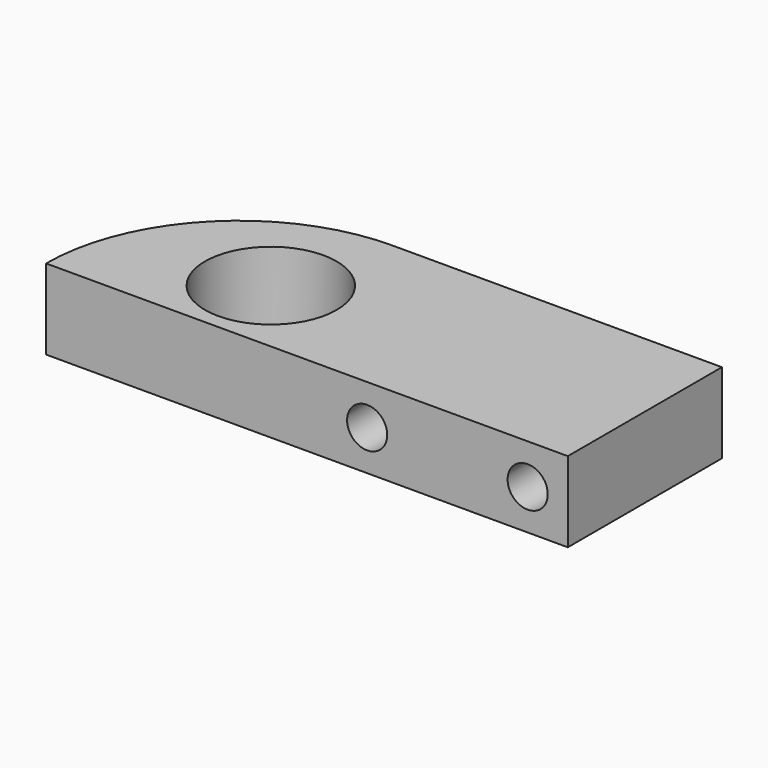
from build123d import *

# Parameters (mm, degrees)
F0_R     = 5.207
F1_DEPTH = 6.35
F3_D     = 3.175


with BuildPart() as f1:
    # F0 (on Top) → F1 (new body)
    with BuildSketch(Plane.XY):
        with BuildLine():
            ThreePointArc((15.24, 15.24), (26.0163073453, 10.7763073453), (30.48, 0))
            Line((30.48, 0), (41.275, 0))
            Line((41.275, 0), (41.275, 15.24))
            Line((41.275, 15.24), (15.24, 15.24))
        make_face()
        with BuildLine():
            ThreePointArc((15.24, 15.24), (4.4636926547, 10.7763073453), (0, 0))
            Line((0, 0), (30.48, 0))
            ThreePointArc((30.48, 0), (26.0163073453, 10.7763073453), (15.24, 15.24))
        make_face()
        with Locations((12.7, 6.3490347266)):
            Circle(F0_R, mode=Mode.SUBTRACT)
    extrude(amount=F1_DEPTH)

    # F3 (through all)
    with Locations(Plane.XZ):
        with Locations((25.4, 3.175), (38.1, 3.175)):
            Hole(F3_D / 2)


solid = f1.part
